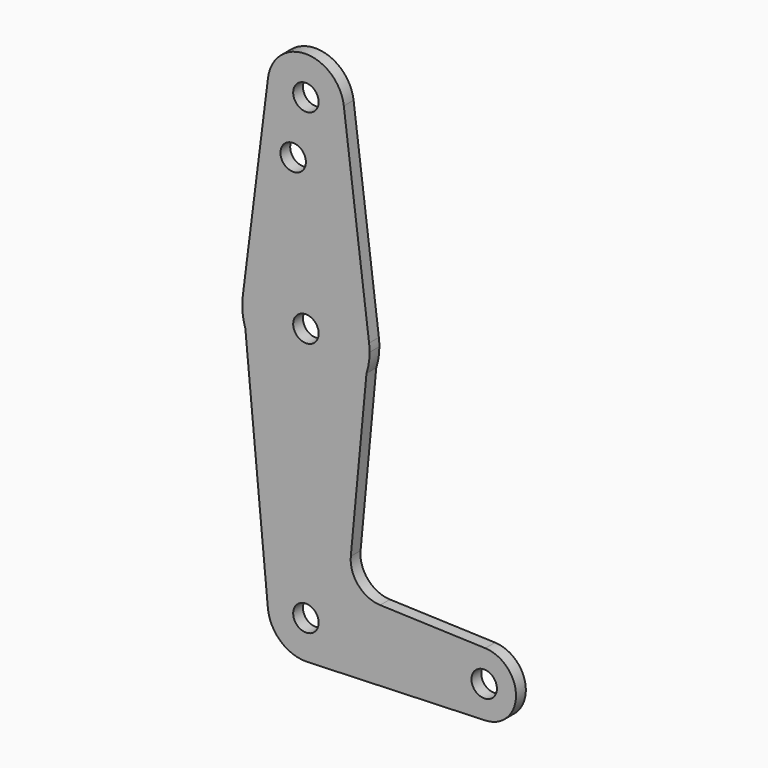
from build123d import *

# Parameters (mm, degrees)
F0_R     = 12.5
F1_DEPTH = 12


with BuildPart() as f1:
    # F0 (on Front) → F1 (new body)
    with BuildSketch(Plane.XZ):
        with BuildLine():
            ThreePointArc((176.1118317896, -31.230215018), (197.4867432438, -21.7004349792), (206.25, 0))
            ThreePointArc((206.25, 0), (197.4867432438, 21.7004349792), (176.1118317896, 31.230215018))
            ThreePointArc((176.1118317896, 31.230215018), (143.75, 0), (176.1118317896, -31.230215018))
        make_face()
        with Locations((175, 0)):
            Circle(F0_R, mode=Mode.SUBTRACT)
        with BuildLine():
            ThreePointArc((176.1118317896, -31.230215018), (143.75, 0), (176.1118317896, 31.230215018))
            Line((176.1118317896, 31.230215018), (72.8595976104, 34.9061140228))
            ThreePointArc((72.8595976104, 34.9061140228), (51.3833504258, 45.0935396139), (44.0597993868, 67.7072176317))
            Line((44.0597993868, 67.7072176317), (59.4515870825, 230.7189524824))
            ThreePointArc((59.4515870825, 230.7189524824), (0, 187.5), (-59.4515870825, 230.7189524824))
            Line((-59.4515870825, 230.7189524824), (-37.3339459271, -3.5251214894))
            ThreePointArc((-37.3339459271, -3.5251214894), (-1.7645151934, 37.458463478), (37.5, 0))
            ThreePointArc((37.5, 0), (27.4431367381, -25.556295623), (2.6667068815, -37.4050621495))
            Line((2.6667068815, -37.4050621495), (176.1118317896, -31.230215018))
        make_face()
        with BuildLine():
            Line((0, -37.5), (2.6667068815, -37.4050621495))
            ThreePointArc((2.6667068815, -37.4050621495), (27.4431367381, -25.556295623), (37.5, 0))
            ThreePointArc((37.5, 0), (-1.7645151934, 37.458463478), (-37.3339459271, -3.5251214894))
            ThreePointArc((-37.3339459271, -3.5251214894), (-25.2394328794, -27.7348341969), (0, -37.5))
        make_face()
        Circle(F0_R, mode=Mode.SUBTRACT)
        with BuildLine():
            ThreePointArc((0, -37.5), (1.3341981475, -37.4762580216), (2.6667068815, -37.4050621495))
            Line((2.6667068815, -37.4050621495), (0, -37.5))
        make_face()
        with BuildLine():
            Line((62.0097963531, 257.8125), (59.4515870825, 230.7189524824))
            ThreePointArc((59.4515870825, 230.7189524824), (61.7331928247, 240.2397282992), (62.5, 250))
            ThreePointArc((62.5, 250), (62.3773287023, 253.9139320339), (62.0097963531, 257.8125))
        make_face()
        with BuildLine():
            ThreePointArc((-59.4515870825, 230.7189524824), (0, 187.5), (59.4515870825, 230.7189524824))
            Line((59.4515870825, 230.7189524824), (62.0097963531, 257.8125))
            ThreePointArc((62.0097963531, 257.8125), (0, 312.5), (-62.0097963531, 257.8125))
            Line((-62.0097963531, 257.8125), (-59.4515870825, 230.7189524824))
        make_face()
        with Locations((0, 250)):
            Circle(F0_R, mode=Mode.SUBTRACT)
        with BuildLine():
            ThreePointArc((-62.0097963531, 257.8125), (-62.2232432118, 244.1247975176), (-59.4515870825, 230.7189524824))
            Line((-59.4515870825, 230.7189524824), (-62.0097963531, 257.8125))
        make_face()
        with BuildLine():
            ThreePointArc((-62.0097963531, 257.8125), (0, 312.5), (62.0097963531, 257.8125))
            Line((62.0097963531, 257.8125), (37.2058778118, 454.6875))
            ThreePointArc((37.2058778118, 454.6875), (37.4263972214, 452.3483592204), (37.5, 450))
            ThreePointArc((37.5, 450), (-2.3483592204, 412.5736027786), (-37.2058778118, 454.6875))
            Line((-37.2058778118, 454.6875), (-62.0097963531, 257.8125))
        make_face()
        with Locations((-12.5, 394)):
            Circle(F0_R, mode=Mode.SUBTRACT)
        with BuildLine():
            ThreePointArc((37.5, 450), (37.4263972214, 452.3483592204), (37.2058778118, 454.6875))
            ThreePointArc((37.2058778118, 454.6875), (0, 487.5), (-37.2058778118, 454.6875))
            ThreePointArc((-37.2058778118, 454.6875), (-2.3483592204, 412.5736027786), (37.5, 450))
        make_face()
        with Locations((0, 450)):
            Circle(F0_R, mode=Mode.SUBTRACT)
    extrude(amount=F1_DEPTH)


solid = f1.part
